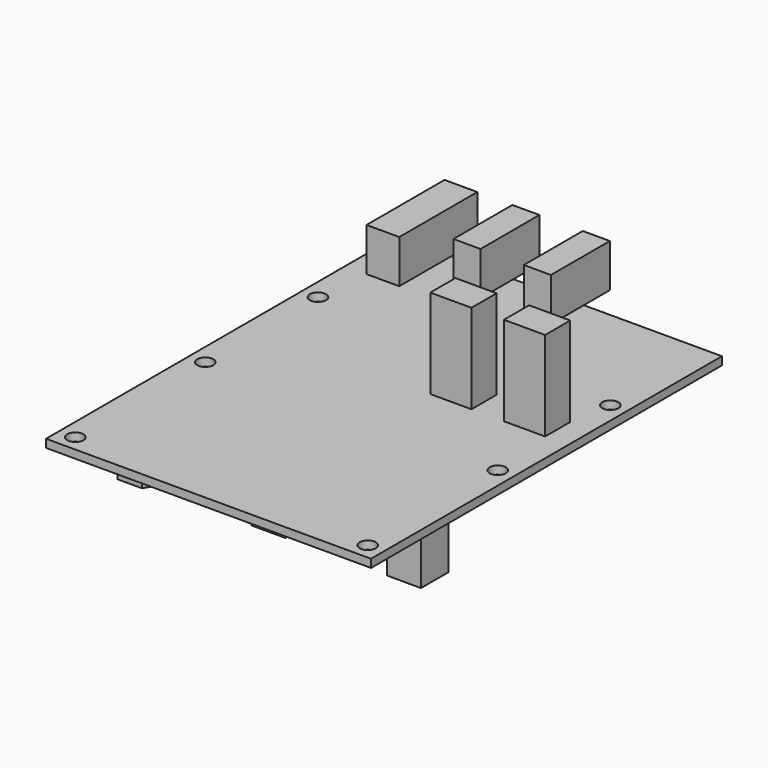
from build123d import *

# Parameters (mm, degrees)
F0_W      = 60
F0_H      = 81
F1_DEPTH  = 1.5
F2_R      = 1.5
F3_DEPTH  = 1.501
F4_W      = 7.6
F4_H      = 5.8
F5_DEPTH  = 16.5
F6_W      = 5
F6_H      = 13.6
F6_W_2    = 6.05
F6_H_2    = 18
F7_DEPTH  = 8
F8_R      = 3.15
F8_W      = 6.3
F8_H      = 6.3
F9_DEPTH  = 9.5
F10_R     = 2.675
F11_DEPTH = 3.5
F12_R     = 3.85
F12_R_2   = 3.15
F13_DEPTH = 5
F14_R     = 3.85
F15_DEPTH = 3


with BuildPart() as f1:
    # F0 (on Top) → F1 (new body)
    with BuildSketch(Plane.XY):
        Rectangle(F0_W, F0_H)
    extrude(amount=F1_DEPTH)

    # F2 (on face) → F3 (cut, through all)
    with BuildSketch(Plane.XY.offset(1.5)):
        with Locations((-27, -37.5)):
            Circle(F2_R)
        with Locations((-27, -7.5)):
            Circle(F2_R)
        with Locations((-27, 18.5)):
            Circle(F2_R)
        with Locations((27, 18.5)):
            Circle(F2_R)
        with Locations((27, -7.5)):
            Circle(F2_R)
        with Locations((27, -37.5)):
            Circle(F2_R)
    extrude(amount=-F3_DEPTH, mode=Mode.SUBTRACT)

    # F4 (on face) → F5 (join)
    with BuildSketch(Plane.XY.offset(1.5)):
        with Locations((8.35, 7.9)):
            Rectangle(F4_W, F4_H)
        with Locations((21.95, 7.9)):
            Rectangle(F4_W, F4_H)
    extrude(amount=F5_DEPTH)

    # F6 (on face) → F7 (join)
    with BuildSketch(Plane.XY.offset(1.5)):
        with Locations((2, 39.7)):
            Rectangle(F6_W, F6_H)
        with Locations((-11, 39.7)):
            Rectangle(F6_W, F6_H)
        with Locations((-23, 37.5)):
            Rectangle(F6_W_2, F6_H_2)
    extrude(amount=F7_DEPTH)

    # F8 (on face) → F9 (join)
    with BuildSketch(Plane(origin=(0, 0, 0), x_dir=(1, 0, 0), z_dir=(0, 0, -1))):
        with Locations((-25, 23.5)):
            Circle(F8_R)
        with Locations((0, 23.5)):
            Rectangle(F8_W, F8_H)
        with Locations((25, 23.5)):
            Rectangle(F8_W, F8_H)
    extrude(amount=F9_DEPTH)

    # F10 (on face) → F11 (join)
    with BuildSketch(Plane(origin=(0, 0, 0), x_dir=(1, 0, 0), z_dir=(0, 0, -1))):
        with Locations((12.4, 15.5)):
            Circle(F10_R)
        with Locations((-12.4, 15.5)):
            Circle(F10_R)
    extrude(amount=F11_DEPTH)

    # F12 (on face) → F13 (join)
    with BuildSketch(Plane(origin=(0, 0, -9.5), x_dir=(1, 0, 0), z_dir=(0, 0, -1))):
        with Locations((-25, 23.5)):
            Circle(F12_R)
        with Locations((-25, 23.5)):
            Circle(F12_R_2, mode=Mode.SUBTRACT)
        with Locations((-25, 23.5)):
            Circle(F12_R_2)
    extrude(amount=-F13_DEPTH)

    # F14 (on face) → F15 (join)
    with BuildSketch(Plane(origin=(0, 0, -9.5), x_dir=(1, 0, 0), z_dir=(0, 0, -1))):
        Polygon((-27.280534, 19.55), (-22.719466, 19.55), (-20.438933, 23.5), (-22.719466, 27.45), (-27.280534, 27.45), (-29.561067, 23.5), align=None)
        with Locations((-25, 23.5)):
            Circle(F14_R, mode=Mode.SUBTRACT)
        with Locations((-25, 23.5)):
            Circle(F14_R)
    extrude(amount=-F15_DEPTH)


solid = f1.part
